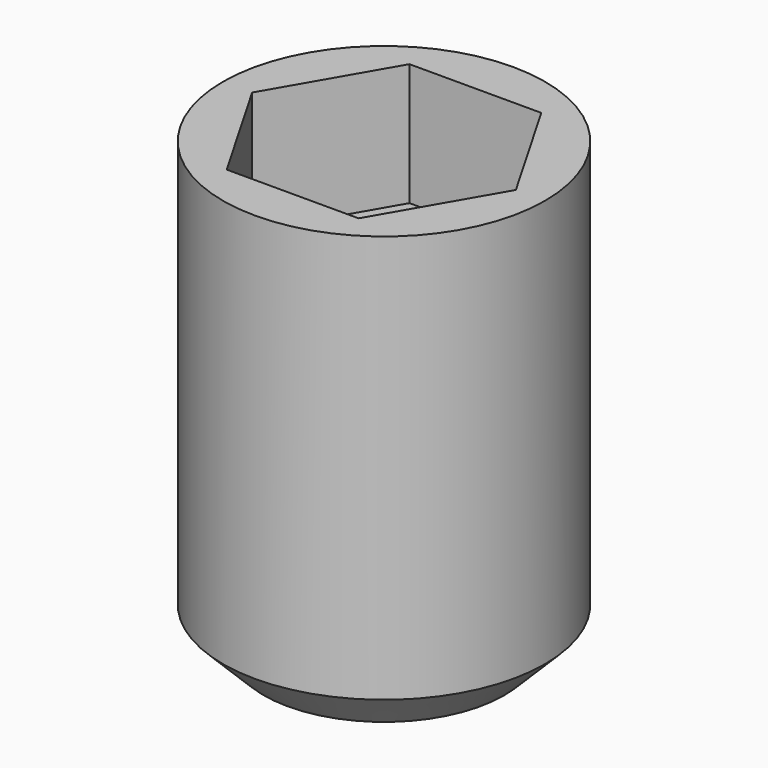
from build123d import *

# Parameters (mm, degrees)
SKETCH_R     = 3.95
SKETCH_R_2   = 1.6
PAD_DEPTH    = 11
CHAMFER_SIZE = 1
POCKET_DEPTH = 3


with BuildPart() as part:
    # Sketch → Pad (new body)
    with BuildSketch(Plane.XY):
        Circle(SKETCH_R)
        Circle(SKETCH_R_2, mode=Mode.SUBTRACT)
    extrude(amount=PAD_DEPTH)

    # Chamfer
    chamfer_edges = [part.edges().sort_by_distance(p)[0] for p in [
        (-3.95, 0, 0),
    ]]
    chamfer(chamfer_edges, length=CHAMFER_SIZE)

    # Sketch001 (on Face3 of Chamfer) → Pocket (cut)
    with BuildSketch(Plane.XY.offset(11)):
        Polygon((1.616581, 2.8), (-1.616581, 2.8), (-3.233162, 0), (-1.616581, -2.8), (1.616581, -2.8), (3.233162, 0), align=None)
    extrude(amount=-POCKET_DEPTH, mode=Mode.SUBTRACT)


solid = part.part
